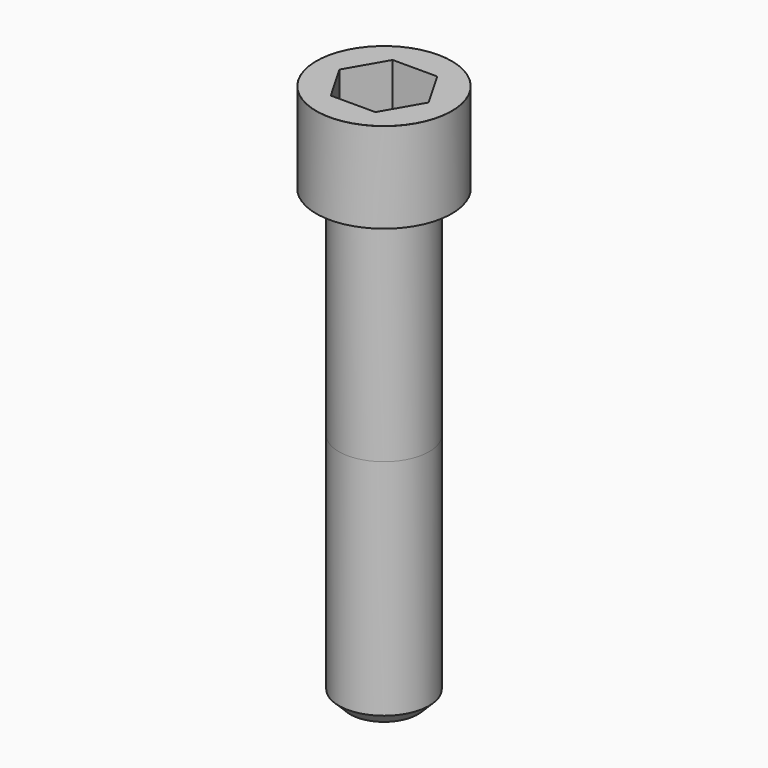
from build123d import *

# Parameters (mm, degrees)
POCKET_DEPTH = 17.1


with BuildPart() as part:
    # Sketch → Revolve (revolve)
    with BuildSketch(Plane.YZ):
        with BuildLine():
            Line((9.999, 0), (15, 0))
            Line((15, 0), (15, 19.97229))
            ThreePointArc((15, 19.97229), (14.991884, 19.991884), (14.97229, 20))
            Line((14.97229, 20), (0, 20))
            Line((0, -100), (0, 20))
            Line((7.5, -100), (0, -100))
            Line((10, -97.5), (7.5, -100))
            Line((10, -48), (10, -97.5))
            Line((9.999, 0), (10, -48))
        make_face()
    revolve(axis=Axis((0, 0, 0), (0, 0, 1)))

    # Sketch001 → Pocket (cut)
    with BuildSketch(Plane.XY.offset(20)):
        Polygon((9.87269, 0), (4.936345, 8.55), (-4.936345, 8.55), (-9.87269, 0), (-4.936345, -8.55), (4.936345, -8.55), align=None)
    extrude(amount=-POCKET_DEPTH, mode=Mode.SUBTRACT)


solid = part.part
